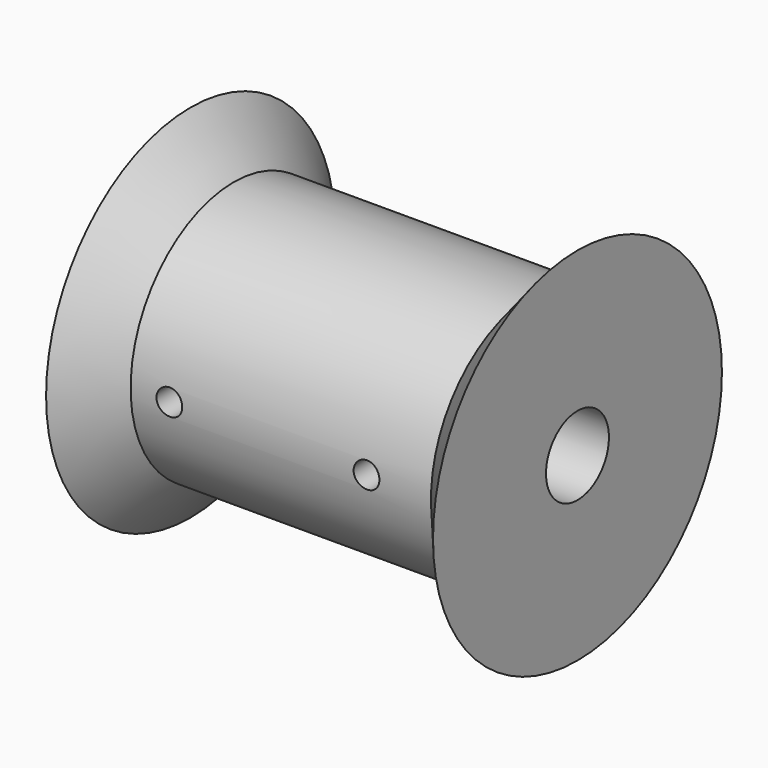
from build123d import *

# Parameters (mm, degrees)
F2_R          = 0.5
F3_DEPTH      = 7.001
F3_DEPTH_BACK = 7.001


with BuildPart() as f1:
    # F0 (on Front) → F1 (revolve)
    with BuildSketch(Plane.XZ):
        Polygon((0, 7), (0, 1.525), (15, 1.525), (15, 7), (13.3218007376, 5), (1.6781992624, 5), align=None)
    revolve(axis=Axis((10.6309527493, 0, 0), (1, 0, 0)))

    # F2 (on Front) → F3 (cut, two sides)
    with BuildSketch(Plane.XZ) as f3_sk:
        with Locations((3.1781992624, 0)):
            Circle(F2_R)
        with Locations((10.8218007376, 0)):
            Circle(F2_R)
    extrude(amount=-F3_DEPTH, mode=Mode.SUBTRACT)
    extrude(f3_sk.sketch, amount=F3_DEPTH_BACK, mode=Mode.SUBTRACT)


solid = f1.part
